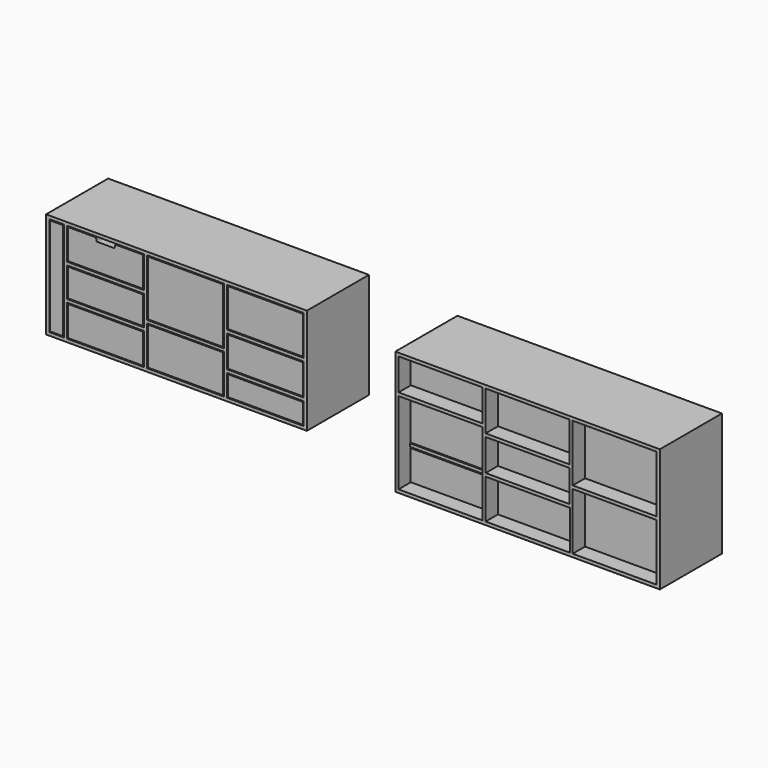
from build123d import *

# Parameters (mm, degrees)
F0_W     = 1500
F0_H     = 700
F0_W_2   = 477.1447038651
F0_H_2   = 224
F0_W_3   = 476
F0_H_3   = 323
F0_H_4   = 180
F0_H_5   = 18
F1_DEPTH = 360
F2_DEPTH = 360
F0_W_4   = 466
F0_H_6   = 214
F0_H_7   = 313
F0_H_8   = 258
F0_H_9   = 170
F0_W_5   = 467.1447038651
F3_DEPTH = 440
F0_W_6   = 435
F0_H_10  = 124
F0_W_7   = 84
F0_H_11  = 564
F0_H_12  = 168
F0_W_8   = 425
F4_DEPTH = 440
F0_H_13  = 114
F0_H_14  = 214.4168760482
F0_W_9   = 424.9999999106
F0_H_15  = 169.9999999106
F0_H_16  = 158
F0_W_10  = 74
F0_H_17  = 554
F6_DEPTH = 400


with BuildPart() as f1:
    # F0 (on Front) → F1 (new body)
    with BuildSketch(Plane.XZ):
        with Locations((750, -350)):
            Rectangle(F0_W, F0_H)
        with Locations((750.5723519325, -570)):
            Rectangle(F0_W_2, F0_H_2, mode=Mode.SUBTRACT)
        with Locations((1244, -520.5)):
            Rectangle(F0_W_3, F0_H_3, mode=Mode.SUBTRACT)
        Polygon((494, -682), (18, -682), (18, -502), (18, -484), (18, -216), (494, -216), (494, -484), (494, -502), align=None, mode=Mode.SUBTRACT)
        with Locations((750, -350)):
            Rectangle(F0_W_3, F0_H_4, mode=Mode.SUBTRACT)
        with Locations((1244, -179.5)):
            Rectangle(F0_W_3, F0_H_3, mode=Mode.SUBTRACT)
        with Locations((256, -108)):
            Rectangle(F0_W_3, F0_H_4, mode=Mode.SUBTRACT)
        Polygon((512, -178), (512, -18), (988, -18), (988, -206), (988, -242), (512, -242), align=None, mode=Mode.SUBTRACT)
        with Locations((256, -493)):
            Rectangle(F0_W_3, F0_H_5)
    extrude(amount=F1_DEPTH)

    # F0 (on Front) → F3 (join)
    with BuildSketch(Plane.XZ):
        with Locations((750, -350)):
            Rectangle(F0_W, F0_H)
        with Locations((750.5723519325, -570)):
            Rectangle(F0_W_2, F0_H_2, mode=Mode.SUBTRACT)
        with Locations((1244, -520.5)):
            Rectangle(F0_W_3, F0_H_3, mode=Mode.SUBTRACT)
        Polygon((494, -682), (18, -682), (18, -502), (18, -484), (18, -216), (494, -216), (494, -484), (494, -502), align=None, mode=Mode.SUBTRACT)
        with Locations((750, -350)):
            Rectangle(F0_W_3, F0_H_4, mode=Mode.SUBTRACT)
        with Locations((1244, -179.5)):
            Rectangle(F0_W_3, F0_H_3, mode=Mode.SUBTRACT)
        with Locations((256, -108)):
            Rectangle(F0_W_3, F0_H_4, mode=Mode.SUBTRACT)
        Polygon((512, -178), (512, -18), (988, -18), (988, -206), (988, -242), (512, -242), align=None, mode=Mode.SUBTRACT)
    extrude(amount=F3_DEPTH)


with BuildPart() as f2:
    # F0 (on Front) → F2 (new body)
    with BuildSketch(Plane.XZ):
        with BuildLine():
            Line((97.9740232229, -23.0000000447), (23.0000000447, -23.0000000447))
            Line((23.0000000447, -23.0000000447), (23.0000000447, -192.9999999553))
            Line((23.0000000447, -192.9999999553), (488.9999999553, -192.9999999553))
            Line((488.9999999553, -192.9999999553), (488.9999999553, -23.0000000447))
            Line((488.9999999553, -23.0000000447), (258.2644462839, -23.0000000447))
            Line((258.2644462839, -23.0000000447), (248.2644462839, -23.0000000447))
            ThreePointArc((248.2644462839, -23.0000000447), (244.728912378, -24.4644661388), (243.2644462839, -28.0000000447))
            Line((243.2644462839, -28.0000000447), (243.2644462839, -48.0000000447))
            ThreePointArc((243.2644462839, -48.0000000447), (240.5672293819, -54.8314976129), (233.9305744791, -57.9777890396))
            ThreePointArc((233.9305744791, -57.9777890396), (233.3355664083, -57.9684156693), (232.7501607809, -57.8615385631))
            Line((232.7501607809, -57.8615385631), (108.3729621608, -24.3753697039))
            ThreePointArc((108.3729621608, -24.3753697039), (103.2187723288, -23.3453331464), (97.9740232229, -23.0000000447))
        make_face()
    extrude(amount=F2_DEPTH)


with BuildPart() as f2b:
    # F0 (on Front) → F2, piece 2 (new body)
    with BuildSketch(Plane.XZ):
        with Locations((750, -130)):
            Rectangle(F0_W_4, F0_H_6)
    extrude(amount=F2_DEPTH)


with BuildPart() as f2c:
    # F0 (on Front) → F2, piece 3 (new body)
    with BuildSketch(Plane.XZ):
        with Locations((1244, -179.5)):
            Rectangle(F0_W_4, F0_H_7)
    extrude(amount=F2_DEPTH)


with BuildPart() as f2d:
    # F0 (on Front) → F2, piece 4 (new body)
    with BuildSketch(Plane.XZ):
        with Locations((256, -350)):
            Rectangle(F0_W_4, F0_H_8)
    extrude(amount=F2_DEPTH)


with BuildPart() as f2e:
    # F0 (on Front) → F2, piece 5 (new body)
    with BuildSketch(Plane.XZ):
        with Locations((256, -592)):
            Rectangle(F0_W_4, F0_H_9)
    extrude(amount=F2_DEPTH)


with BuildPart() as f2f:
    # F0 (on Front) → F2, piece 6 (new body)
    with BuildSketch(Plane.XZ):
        with Locations((1244, -520.5)):
            Rectangle(F0_W_4, F0_H_7)
    extrude(amount=F2_DEPTH)


with BuildPart() as f2g:
    # F0 (on Front) → F2, piece 7 (new body)
    with BuildSketch(Plane.XZ):
        with Locations((750, -350)):
            Rectangle(F0_W_4, F0_H_9)
    extrude(amount=F2_DEPTH)


with BuildPart() as f2h:
    # F0 (on Front) → F2, piece 8 (new body)
    with BuildSketch(Plane.XZ):
        with Locations((750.5723519325, -570)):
            Rectangle(F0_W_5, F0_H_6)
    extrude(amount=F2_DEPTH)


with BuildPart() as f3:
    # F0 (on Front) → F3, piece 2 (new body)
    with BuildSketch(Plane.XZ):
        Polygon((-501.5018062246, 41.052677546), (-1980.5018062246, 41.052677546), (-1980.5018062246, 23.052677546), (-1980.5018062246, -558.947322454), (-501.5018062246, -558.947322454), (-501.5018062246, 23.052677546), align=None)
        with Locations((-1643.0018062246, -450.947322454)):
            Rectangle(F0_W_6, F0_H_4, mode=Mode.SUBTRACT)
        Polygon((-1407.5018062246, -316.5304464058), (-972.5018062246, -316.5304464058), (-972.5018062246, -540.947322454), (-1407.5018062246, -540.947322454), (-1407.5018062246, -515.947322454), align=None, mode=Mode.SUBTRACT)
        with Locations((-737.0018062246, -478.947322454)):
            Rectangle(F0_W_6, F0_H_10, mode=Mode.SUBTRACT)
        with Locations((-1920.5018062246, -258.947322454)):
            Rectangle(F0_W_7, F0_H_11, mode=Mode.SUBTRACT)
        with Locations((-1643.0018062246, -258.947322454)):
            Rectangle(F0_W_6, F0_H_12, mode=Mode.SUBTRACT)
        with Locations((-737.0018062246, -308.947322454)):
            Rectangle(F0_W_6, F0_H_4, mode=Mode.SUBTRACT)
        with Locations((-1643.0018062246, -66.947322454)):
            Rectangle(F0_W_6, F0_H_4, mode=Mode.SUBTRACT)
        Polygon((-1407.5018062246, -36.947322454), (-1407.5018062246, 23.052677546), (-972.5018062246, 23.052677546), (-972.5018062246, -64.947322454), (-972.5018062246, -299.947322454), (-1407.5018062246, -299.947322454), align=None, mode=Mode.SUBTRACT)
        with Locations((-737.0018062246, -88.947322454)):
            Rectangle(F0_W_6, F0_H_2, mode=Mode.SUBTRACT)
    extrude(amount=F3_DEPTH)


with BuildPart() as f4:
    # F0 (on Front) → F4 (new body)
    with BuildSketch(Plane.XZ):
        with Locations((-737.0018062246, -88.947322454)):
            Rectangle(F0_W_8, F0_H_6)
    extrude(amount=F4_DEPTH)


with BuildPart() as f4b:
    # F0 (on Front) → F4, piece 2 (new body)
    with BuildSketch(Plane.XZ):
        with Locations((-737.0018062246, -308.947322454)):
            Rectangle(F0_W_8, F0_H_9)
    extrude(amount=F4_DEPTH)


with BuildPart() as f4c:
    # F0 (on Front) → F4, piece 3 (new body)
    with BuildSketch(Plane.XZ):
        with Locations((-737.0018062246, -478.947322454)):
            Rectangle(F0_W_8, F0_H_13)
    extrude(amount=F4_DEPTH)


with BuildPart() as f4d:
    # F0 (on Front) → F4, piece 4 (new body)
    with BuildSketch(Plane.XZ):
        with Locations((-1190.0018062246, -138.447322454)):
            Rectangle(F0_W_8, F0_H_7)
    extrude(amount=F4_DEPTH)


with BuildPart() as f4e:
    # F0 (on Front) → F4, piece 5 (new body)
    with BuildSketch(Plane.XZ):
        with Locations((-1190.0018062246, -428.7388844299)):
            Rectangle(F0_W_8, F0_H_14)
    extrude(amount=F4_DEPTH)


with BuildPart() as f4f:
    # F0 (on Front) → F4, piece 6 (new body)
    with BuildSketch(Plane.XZ):
        with Locations((-1643.0018062246, -66.947322454)):
            Rectangle(F0_W_9, F0_H_15)
    extrude(amount=F4_DEPTH)

    # F5 (on face) → F6 (cut)
    with BuildSketch(Plane.XZ.offset(440)):
        with BuildLine():
            Line((-1689.1651712847, -1.9473224987), (-1643.0018062246, -1.9473224987))
            Line((-1643.0018062246, -1.9473224987), (-1596.8384411645, -1.9473224987))
            ThreePointArc((-1596.8384411645, -1.9473224987), (-1593.7946340194, -0.9140892002), (-1592.008812033, 1.7585822758))
            Line((-1592.008812033, 1.7585822758), (-1587.6428223759, 18.0526775013))
            Line((-1587.6428223759, 18.0526775013), (-1698.3607900732, 18.0526775013))
            Line((-1698.3607900732, 18.0526775013), (-1693.9948004161, 1.7585822758))
            ThreePointArc((-1693.9948004161, 1.7585822758), (-1692.2089784297, -0.9140892002), (-1689.1651712847, -1.9473224987))
        make_face()
    extrude(amount=-F6_DEPTH, mode=Mode.SUBTRACT)


with BuildPart() as f4g:
    # F0 (on Front) → F4, piece 7 (new body)
    with BuildSketch(Plane.XZ):
        with Locations((-1643.0018062246, -258.947322454)):
            Rectangle(F0_W_8, F0_H_16)
    extrude(amount=F4_DEPTH)


with BuildPart() as f4h:
    # F0 (on Front) → F4, piece 8 (new body)
    with BuildSketch(Plane.XZ):
        with Locations((-1643.0018062246, -450.947322454)):
            Rectangle(F0_W_8, F0_H_9)
    extrude(amount=F4_DEPTH)


with BuildPart() as f4i:
    # F0 (on Front) → F4, piece 9 (new body)
    with BuildSketch(Plane.XZ):
        with Locations((-1920.5018062246, -258.947322454)):
            Rectangle(F0_W_10, F0_H_17)
    extrude(amount=F4_DEPTH)


solid = Compound([f1.part, f2.part, f2b.part, f2c.part, f2d.part, f2e.part, f2f.part, f2g.part, f2h.part, f3.part, f4.part, f4b.part, f4c.part, f4d.part, f4e.part, f4f.part, f4g.part, f4h.part, f4i.part])
